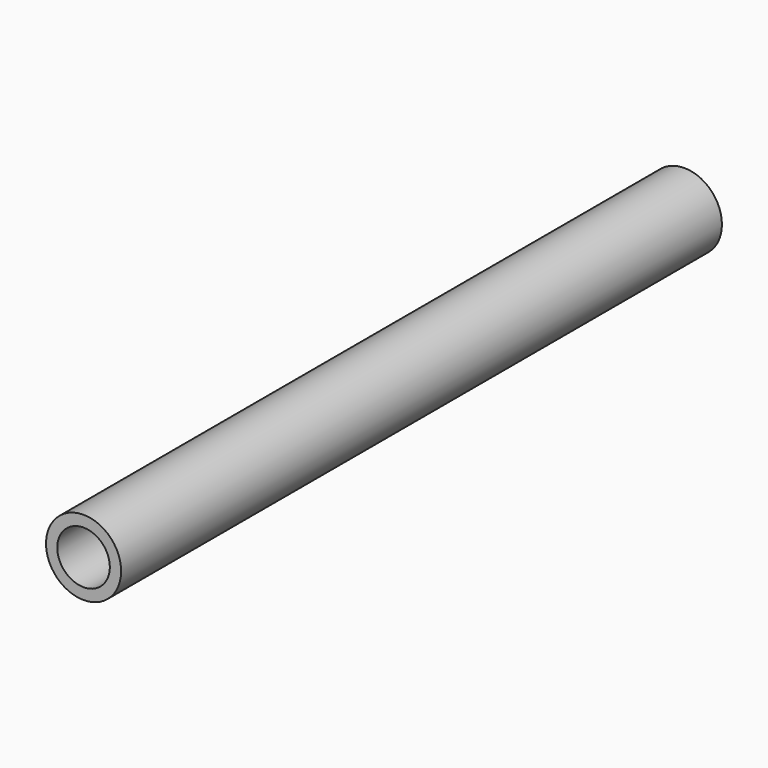
from build123d import *

# Parameters (mm, degrees)
F0_R     = 6.35
F1_DEPTH = 127
F2_R     = 4.445
F3_DEPTH = 127
F4_R     = 3.1877
F5_DEPTH = 6.351


with BuildPart() as f1:
    # F0 (on Front) → F1 (new body)
    with BuildSketch(Plane.XZ):
        Circle(F0_R)
    extrude(amount=F1_DEPTH)

    # F2 (on Front) → F3 (cut)
    with BuildSketch(Plane.XZ):
        Circle(F2_R)
    extrude(amount=F3_DEPTH, mode=Mode.SUBTRACT)

    # F4 (on Top) → F5 (cut, through all)
    with BuildSketch(Plane.XY):
        with Locations((0, -21.939068)):
            Circle(F4_R)
    extrude(amount=-F5_DEPTH, mode=Mode.SUBTRACT)


solid = f1.part
